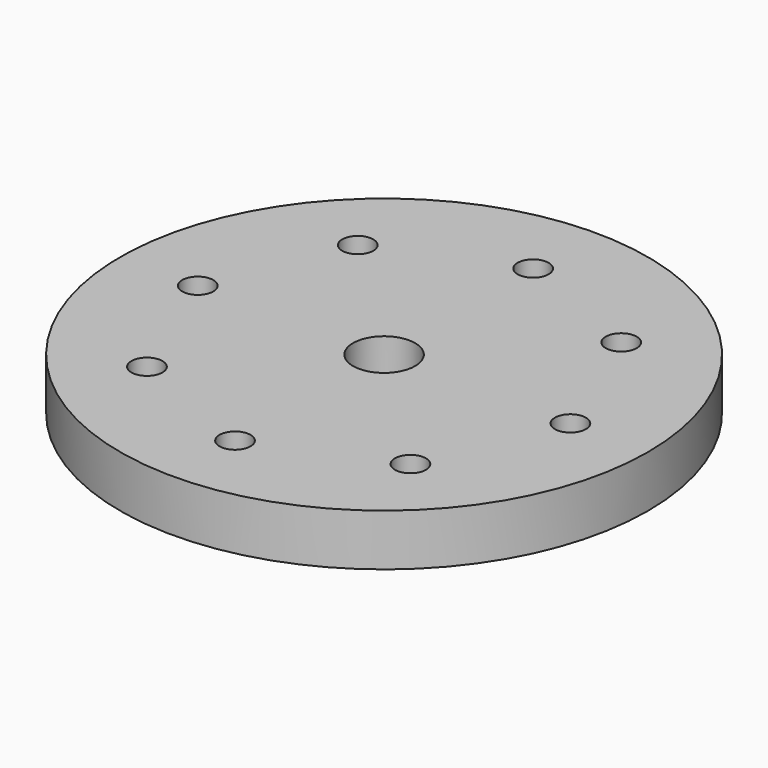
from build123d import *

# Parameters (mm, degrees)
F0_R     = 12.75
F0_R_2   = 0.75
F0_R_3   = 4
F0_R_4   = 3
F0_R_5   = 1.5
F1_DEPTH = 2.5
F2_DEPTH = 3


with BuildPart() as f1:
    # F0 (on Top) → F1 (new body)
    with BuildSketch(Plane.XY):
        Circle(F0_R)
        with Locations((-6.3639610307, -6.3639610307)):
            Circle(F0_R_2, mode=Mode.SUBTRACT)
        with Locations((0, -9)):
            Circle(F0_R_2, mode=Mode.SUBTRACT)
        with Locations((6.3639610307, -6.3639610307)):
            Circle(F0_R_2, mode=Mode.SUBTRACT)
        with Locations((-9, 0)):
            Circle(F0_R_2, mode=Mode.SUBTRACT)
        with Locations((-6.3639610307, 6.3639610307)):
            Circle(F0_R_2, mode=Mode.SUBTRACT)
        Circle(F0_R_3, mode=Mode.SUBTRACT)
        with Locations((6.3639610307, 6.3639610307)):
            Circle(F0_R_2, mode=Mode.SUBTRACT)
        with Locations((9, 0)):
            Circle(F0_R_2, mode=Mode.SUBTRACT)
        with Locations((0, 9)):
            Circle(F0_R_2, mode=Mode.SUBTRACT)
        Circle(F0_R_3)
        Circle(F0_R_4, mode=Mode.SUBTRACT)
        Circle(F0_R_4)
        Circle(F0_R_5, mode=Mode.SUBTRACT)
    extrude(amount=F1_DEPTH)

    # F0 (on Top) → F2 (join)
    with BuildSketch(Plane.XY):
        Circle(F0_R_3)
        Circle(F0_R_4, mode=Mode.SUBTRACT)
    extrude(amount=-F2_DEPTH)


solid = f1.part
